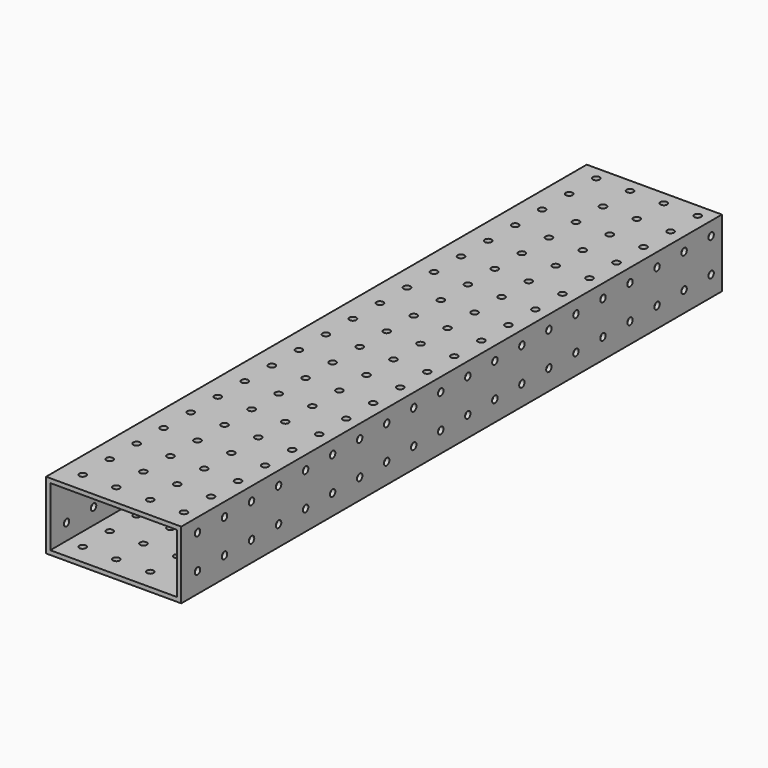
from build123d import *

# Parameters (mm, degrees)
F0_W     = 101.6
F0_H     = 50.8
F1_DEPTH = 508
F2_W     = 95.25
F2_H     = 44.45
F3_DEPTH = 533.4
F4_R     = 2.5527
F5_DEPTH = 508
F6_R     = 2.5527
F7_DEPTH = 127


with BuildPart() as f1:
    # F0 (on Front) → F1 (new body)
    with BuildSketch(Plane.XZ):
        with Locations((15.281302, 2.947737)):
            Rectangle(F0_W, F0_H)
    extrude(amount=F1_DEPTH)

    # F2 (on face) → F3 (cut)
    with BuildSketch(Plane.XZ.offset(508)):
        with Locations((15.281302, 2.947737)):
            Rectangle(F2_W, F2_H)
    extrude(amount=-F3_DEPTH, mode=Mode.SUBTRACT)

    # F4 (on face) → F5 (cut)
    with BuildSketch(Plane(origin=(0, 0, -22.452263), x_dir=(1, 0, 0), z_dir=(0, 0, -1))):
        with Locations((-20.265998, 492.7473)):
            Circle(F4_R)
        with Locations((-20.265998, 467.3473)):
            Circle(F4_R)
        with Locations((-20.265998, 441.9473)):
            Circle(F4_R)
        with Locations((-20.265998, 416.5473)):
            Circle(F4_R)
        with Locations((-20.265998, 391.1473)):
            Circle(F4_R)
        with Locations((-20.265998, 365.7473)):
            Circle(F4_R)
        with Locations((-20.265998, 340.3473)):
            Circle(F4_R)
        with Locations((-20.265998, 314.9473)):
            Circle(F4_R)
        with Locations((-20.265998, 289.5473)):
            Circle(F4_R)
        with Locations((-20.265998, 264.1473)):
            Circle(F4_R)
        with Locations((-20.265998, 238.7473)):
            Circle(F4_R)
        with Locations((-20.265998, 213.3473)):
            Circle(F4_R)
        with Locations((-20.265998, 187.9473)):
            Circle(F4_R)
        with Locations((-20.265998, 162.5473)):
            Circle(F4_R)
        with Locations((-20.265998, 137.1473)):
            Circle(F4_R)
        with Locations((-20.265998, 111.7473)):
            Circle(F4_R)
        with Locations((-20.265998, 86.3473)):
            Circle(F4_R)
        with Locations((-20.265998, 60.9473)):
            Circle(F4_R)
        with Locations((-20.265998, 35.5473)):
            Circle(F4_R)
        with Locations((-20.265998, 10.1473)):
            Circle(F4_R)
        with Locations((5.134002, 492.7473)):
            Circle(F4_R)
        with Locations((5.134002, 467.3473)):
            Circle(F4_R)
        with Locations((5.134002, 441.9473)):
            Circle(F4_R)
        with Locations((5.134002, 416.5473)):
            Circle(F4_R)
        with Locations((5.134002, 391.1473)):
            Circle(F4_R)
        with Locations((5.134002, 365.7473)):
            Circle(F4_R)
        with Locations((5.134002, 340.3473)):
            Circle(F4_R)
        with Locations((5.134002, 314.9473)):
            Circle(F4_R)
        with Locations((5.134002, 289.5473)):
            Circle(F4_R)
        with Locations((5.134002, 264.1473)):
            Circle(F4_R)
        with Locations((5.134002, 238.7473)):
            Circle(F4_R)
        with Locations((5.134002, 213.3473)):
            Circle(F4_R)
        with Locations((5.134002, 187.9473)):
            Circle(F4_R)
        with Locations((5.134002, 162.5473)):
            Circle(F4_R)
        with Locations((5.134002, 137.1473)):
            Circle(F4_R)
        with Locations((5.134002, 111.7473)):
            Circle(F4_R)
        with Locations((5.134002, 86.3473)):
            Circle(F4_R)
        with Locations((5.134002, 60.9473)):
            Circle(F4_R)
        with Locations((5.134002, 35.5473)):
            Circle(F4_R)
        with Locations((5.134002, 10.1473)):
            Circle(F4_R)
        with Locations((30.534002, 492.7473)):
            Circle(F4_R)
        with Locations((30.534002, 467.3473)):
            Circle(F4_R)
        with Locations((30.534002, 441.9473)):
            Circle(F4_R)
        with Locations((30.534002, 416.5473)):
            Circle(F4_R)
        with Locations((30.534002, 391.1473)):
            Circle(F4_R)
        with Locations((30.534002, 365.7473)):
            Circle(F4_R)
        with Locations((30.534002, 340.3473)):
            Circle(F4_R)
        with Locations((30.534002, 314.9473)):
            Circle(F4_R)
        with Locations((30.534002, 289.5473)):
            Circle(F4_R)
        with Locations((30.534002, 264.1473)):
            Circle(F4_R)
        with Locations((30.534002, 238.7473)):
            Circle(F4_R)
        with Locations((30.534002, 213.3473)):
            Circle(F4_R)
        with Locations((30.534002, 187.9473)):
            Circle(F4_R)
        with Locations((30.534002, 162.5473)):
            Circle(F4_R)
        with Locations((30.534002, 137.1473)):
            Circle(F4_R)
        with Locations((30.534002, 111.7473)):
            Circle(F4_R)
        with Locations((30.534002, 86.3473)):
            Circle(F4_R)
        with Locations((30.534002, 60.9473)):
            Circle(F4_R)
        with Locations((30.534002, 35.5473)):
            Circle(F4_R)
        with Locations((30.534002, 10.1473)):
            Circle(F4_R)
        with Locations((55.934002, 492.7473)):
            Circle(F4_R)
        with Locations((55.934002, 467.3473)):
            Circle(F4_R)
        with Locations((55.934002, 441.9473)):
            Circle(F4_R)
        with Locations((55.934002, 416.5473)):
            Circle(F4_R)
        with Locations((55.934002, 391.1473)):
            Circle(F4_R)
        with Locations((55.934002, 365.7473)):
            Circle(F4_R)
        with Locations((55.934002, 340.3473)):
            Circle(F4_R)
        with Locations((55.934002, 314.9473)):
            Circle(F4_R)
        with Locations((55.934002, 289.5473)):
            Circle(F4_R)
        with Locations((55.934002, 264.1473)):
            Circle(F4_R)
        with Locations((55.934002, 238.7473)):
            Circle(F4_R)
        with Locations((55.934002, 213.3473)):
            Circle(F4_R)
        with Locations((55.934002, 187.9473)):
            Circle(F4_R)
        with Locations((55.934002, 162.5473)):
            Circle(F4_R)
        with Locations((55.934002, 137.1473)):
            Circle(F4_R)
        with Locations((55.934002, 111.7473)):
            Circle(F4_R)
        with Locations((55.934002, 86.3473)):
            Circle(F4_R)
        with Locations((55.934002, 60.9473)):
            Circle(F4_R)
        with Locations((55.934002, 35.5473)):
            Circle(F4_R)
        with Locations((55.934002, 10.1473)):
            Circle(F4_R)
    extrude(amount=-F5_DEPTH, mode=Mode.SUBTRACT)

    # F6 (on face) → F7 (cut)
    with BuildSketch(Plane.YZ.offset(66.081302)):
        with Locations((-492.7473, -7.199563)):
            Circle(F6_R)
        with Locations((-492.7473, 18.200437)):
            Circle(F6_R)
        with Locations((-467.3473, -7.199563)):
            Circle(F6_R)
        with Locations((-467.3473, 18.200437)):
            Circle(F6_R)
        with Locations((-441.9473, -7.199563)):
            Circle(F6_R)
        with Locations((-441.9473, 18.200437)):
            Circle(F6_R)
        with Locations((-416.5473, -7.199563)):
            Circle(F6_R)
        with Locations((-416.5473, 18.200437)):
            Circle(F6_R)
        with Locations((-391.1473, -7.199563)):
            Circle(F6_R)
        with Locations((-391.1473, 18.200437)):
            Circle(F6_R)
        with Locations((-365.7473, -7.199563)):
            Circle(F6_R)
        with Locations((-365.7473, 18.200437)):
            Circle(F6_R)
        with Locations((-340.3473, -7.199563)):
            Circle(F6_R)
        with Locations((-340.3473, 18.200437)):
            Circle(F6_R)
        with Locations((-314.9473, -7.199563)):
            Circle(F6_R)
        with Locations((-314.9473, 18.200437)):
            Circle(F6_R)
        with Locations((-289.5473, -7.199563)):
            Circle(F6_R)
        with Locations((-289.5473, 18.200437)):
            Circle(F6_R)
        with Locations((-264.1473, -7.199563)):
            Circle(F6_R)
        with Locations((-264.1473, 18.200437)):
            Circle(F6_R)
        with Locations((-238.7473, -7.199563)):
            Circle(F6_R)
        with Locations((-238.7473, 18.200437)):
            Circle(F6_R)
        with Locations((-213.3473, -7.199563)):
            Circle(F6_R)
        with Locations((-213.3473, 18.200437)):
            Circle(F6_R)
        with Locations((-187.9473, -7.199563)):
            Circle(F6_R)
        with Locations((-187.9473, 18.200437)):
            Circle(F6_R)
        with Locations((-162.5473, -7.199563)):
            Circle(F6_R)
        with Locations((-162.5473, 18.200437)):
            Circle(F6_R)
        with Locations((-137.1473, -7.199563)):
            Circle(F6_R)
        with Locations((-137.1473, 18.200437)):
            Circle(F6_R)
        with Locations((-111.7473, -7.199563)):
            Circle(F6_R)
        with Locations((-111.7473, 18.200437)):
            Circle(F6_R)
        with Locations((-86.3473, -7.199563)):
            Circle(F6_R)
        with Locations((-86.3473, 18.200437)):
            Circle(F6_R)
        with Locations((-60.9473, -7.199563)):
            Circle(F6_R)
        with Locations((-60.9473, 18.200437)):
            Circle(F6_R)
        with Locations((-35.5473, -7.199563)):
            Circle(F6_R)
        with Locations((-35.5473, 18.200437)):
            Circle(F6_R)
        with Locations((-10.1473, -7.199563)):
            Circle(F6_R)
        with Locations((-10.1473, 18.200437)):
            Circle(F6_R)
    extrude(amount=-F7_DEPTH, mode=Mode.SUBTRACT)


solid = f1.part
